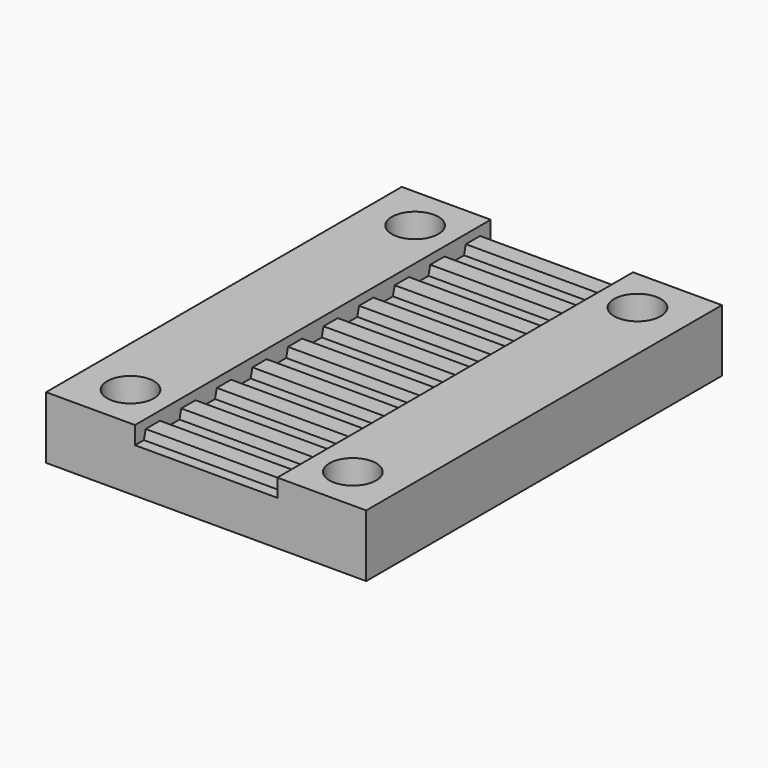
from build123d import *

# Parameters (mm, degrees)
SKETCH_W     = 16
SKETCH_H     = 50
PAD_DEPTH    = 5
PAD001_DEPTH = 16
SKETCH002_W  = 10
SKETCH002_H  = 50
PAD002_DEPTH = 7
SKETCH003_W  = 10
SKETCH003_H  = 50
PAD003_DEPTH = 7
SKETCH004_R  = 2.625
POCKET_DEPTH = 7


with BuildPart() as part:
    # Sketch → Pad (new body)
    with BuildSketch(Plane.XY):
        Rectangle(SKETCH_W, SKETCH_H)
    extrude(amount=PAD_DEPTH)

    # Sketch001 (on Face3 of Pad) → Pad001 (join)
    with BuildSketch(Plane.YZ.offset(8)):
        Polygon((-23.75, 5), (-23.5, 6), (-21.5, 6), (-21.25, 5), align=None)
        Polygon((-18.75, 5), (-18.5, 6), (-16.5, 6), (-16.25, 5), align=None)
        Polygon((-13.75, 5), (-13.5, 6), (-11.5, 6), (-11.25, 5), align=None)
        Polygon((-8.75, 5), (-8.5, 6), (-6.5, 6), (-6.25, 5), align=None)
        Polygon((-3.75, 5), (-3.5, 6), (-1.5, 6), (-1.25, 5), align=None)
        Polygon((1.25, 5), (1.5, 6), (3.5, 6), (3.75, 5), align=None)
        Polygon((6.25, 5), (6.5, 6), (8.5, 6), (8.75, 5), align=None)
        Polygon((11.25, 5), (11.5, 6), (13.5, 6), (13.75, 5), align=None)
        Polygon((16.25, 5), (16.5, 6), (18.5, 6), (18.75, 5), align=None)
        Polygon((21.25, 5), (21.5, 6), (23.5, 6), (23.75, 5), align=None)
    extrude(amount=-PAD001_DEPTH)

    # Sketch002 (on Face4 of Pad001) → Pad002 (join)
    with BuildSketch(Plane(origin=(0, 0, 0), x_dir=(1, 0, 0), z_dir=(0, 0, -1))):
        with Locations((13, 0)):
            Rectangle(SKETCH002_W, SKETCH002_H)
    extrude(amount=-PAD002_DEPTH)

    # Sketch003 (on Face4 of Pad002) → Pad003 (join)
    with BuildSketch(Plane(origin=(0, 0, 0), x_dir=(1, 0, 0), z_dir=(0, 0, -1))):
        with Locations((-13, 0)):
            Rectangle(SKETCH003_W, SKETCH003_H)
    extrude(amount=-PAD003_DEPTH)

    # Sketch004 (on Face12 of Pad003) → Pocket (cut)
    with BuildSketch(Plane(origin=(0, 0, 0), x_dir=(1, 0, 0), z_dir=(0, 0, -1))):
        with Locations((-12.5, 20)):
            Circle(SKETCH004_R)
        with Locations((-12.5, -20)):
            Circle(SKETCH004_R)
        with Locations((12.5, -20)):
            Circle(SKETCH004_R)
        with Locations((12.5, 20)):
            Circle(SKETCH004_R)
    extrude(amount=-POCKET_DEPTH, mode=Mode.SUBTRACT)


solid = part.part
